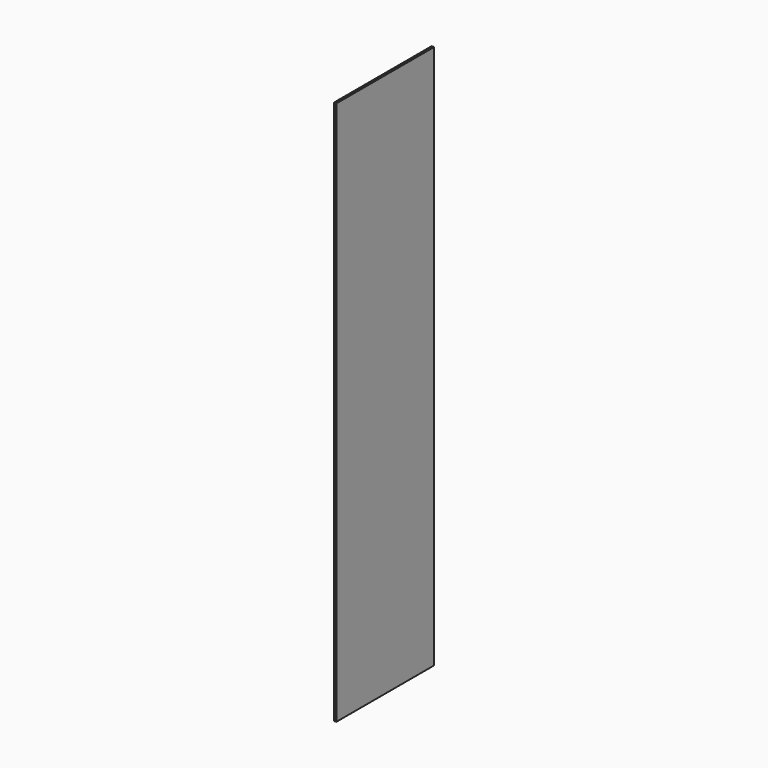
from build123d import *

# Parameters (mm, degrees)
F0_W     = 400
F0_H     = 1784
F1_DEPTH = 4
F2_SIZE  = 1
F3_SIZE  = 1


with BuildPart() as f1:
    # F0 (on Right) → F1 (new body, symmetric)
    with BuildSketch(Plane.YZ):
        Rectangle(F0_W, F0_H)
    extrude(amount=F1_DEPTH, both=True)

    # F2
    f2_edges = [f1.edges().sort_by_distance(p)[0] for p in [
        (4, 200, 0),
        (-4, 200, 0),
        (4, 0, 892),
        (-4, 0, 892),
        (-4, 0, -892),
        (4, 0, -892),
        (-4, -200, 0),
        (4, -200, 0),
    ]]
    chamfer(f2_edges, length=F2_SIZE)

    # F3
    f3_edges = [f1.edges().sort_by_distance(p)[0] for p in [
        (0, 200, -892),
        (0, -200, -892),
        (0, -200, 892),
        (0, 200, 892),
    ]]
    chamfer(f3_edges, length=F3_SIZE)


solid = f1.part
